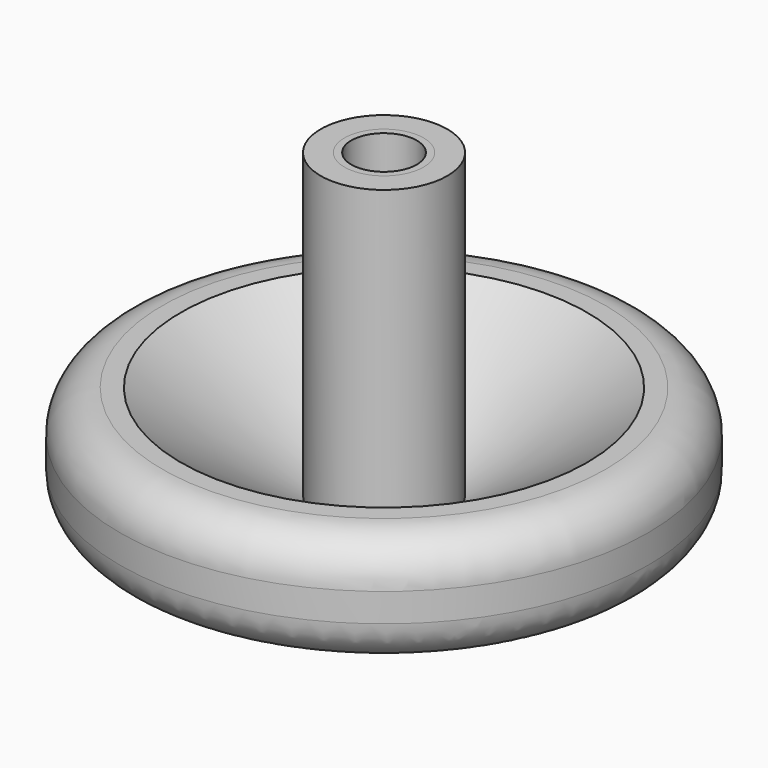
from build123d import *

# Parameters (mm, degrees)
F2_R      = 5.08
F3_R      = 25.4
F4_R      = 4.7625
F5_DEPTH  = 9.525
F6_R      = 1.5875
F7_DEPTH  = 9.525
F5_FACE_R = 4.7625
F8_DEPTH  = 9.525
F9_DEPTH  = 24.892
F10_R     = 3.936794
F11_DEPTH = 9.525
F7_FACE_R = 1.5875
F12_DEPTH = 11.43


with BuildPart() as f1:
    # F0 (on Front) → F1 (revolve)
    with BuildSketch(Plane.XZ):
        Polygon((10.500061, 4.015946), (31.75, 8.134865), (31.75, 20.834865), (24.443309, 20.834865), (7.62, 9.438433), (7.62, 45.72), (0, 45.72), (0, 0), (1.5875, 0), align=None)
    revolve(axis=Axis((0, 0, 22.86), (0, 0, -1)))

    # F2
    f2_edges = [f1.edges().sort_by_distance(p)[0] for p in [
        (-31.75, 0, 8.134865),
        (-31.75, 0, 20.834865),
        (31.75, 0, 14.484865),
    ]]
    fillet(f2_edges, radius=F2_R)

    # F3
    f3_edges = [f1.edges().sort_by_distance(p)[0] for p in [
        (-10.500061, 0, 4.015946),
    ]]
    fillet(f3_edges, radius=F3_R)

    # F4 (on face) → F5 (cut)
    with BuildSketch(Plane.XY.offset(45.72)):
        Circle(F4_R)
    extrude(amount=-F5_DEPTH, mode=Mode.SUBTRACT)

    # F6 (on Top) → F7 (cut)
    with BuildSketch(Plane.XY):
        Circle(F6_R)
    extrude(amount=F7_DEPTH, mode=Mode.SUBTRACT)

    # F5_face (on face) → F9 (cut)
    with BuildSketch(Plane.XY.offset(36.195)):
        Circle(F5_FACE_R)
    extrude(amount=-F9_DEPTH, mode=Mode.SUBTRACT)


with BuildPart() as f8:
    # F5_face (on face) → F8 (new body)
    with BuildSketch(Plane.XY.offset(36.195)):
        Circle(F5_FACE_R)
    extrude(amount=F8_DEPTH)

    # F10 (on face) → F11 (cut)
    with BuildSketch(Plane.XY.offset(45.72)):
        Circle(F10_R)
    extrude(amount=-F11_DEPTH, mode=Mode.SUBTRACT)


with BuildPart() as f12:
    # F7_face (on face) → F12 (new body)
    with BuildSketch(Plane(origin=(0, 0, 9.525), x_dir=(1, 0, 0), z_dir=(0, 0, -1))):
        Circle(F7_FACE_R)
    extrude(amount=F12_DEPTH)


solid = Compound([f1.part, f8.part, f12.part])
